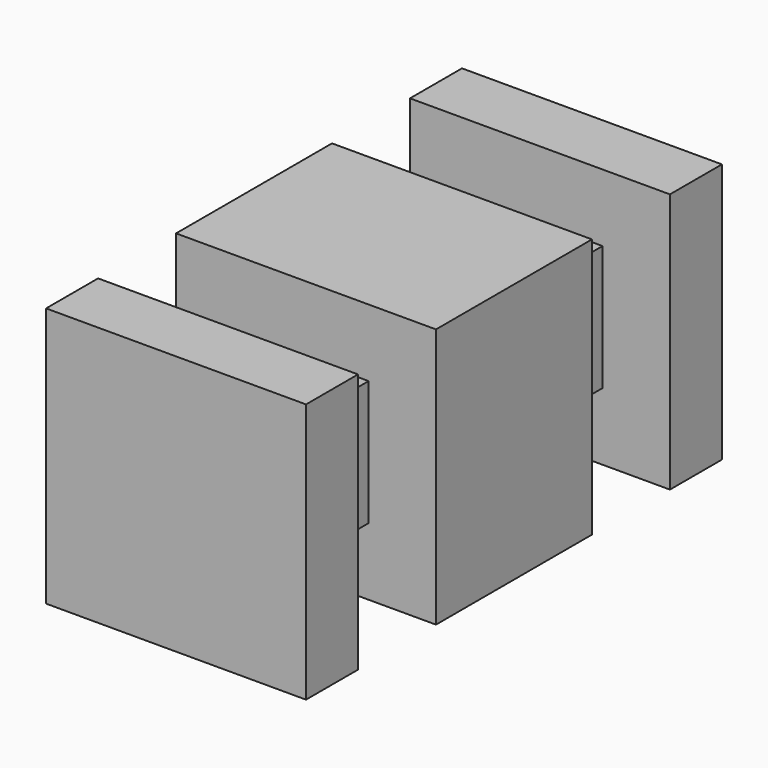
from build123d import *

# Parameters (mm, degrees)
F0_W      = 8
F0_H      = 6
F1_DEPTH  = 8
F2_W      = 3.85
F2_H      = 3.85
F3_DEPTH  = 3
F4_W      = 8
F4_H      = 8
F4_W_2    = 3.85
F4_H_2    = 3.85
F5_DEPTH  = 2
F7_W      = 3.85
F7_H      = 3.85
F8_DEPTH  = 3
F9_W      = 8
F9_H      = 8
F9_W_2    = 3.85
F9_H_2    = 3.85
F10_DEPTH = 2.35
F11_DEPTH = 0.35


with BuildPart() as f1:
    # F0 (on Top) → F1 (new body)
    with BuildSketch(Plane.XY):
        Rectangle(F0_W, F0_H)
    extrude(amount=F1_DEPTH)

    # F2 (on face) → F3 (join)
    with BuildSketch(Plane.XZ.offset(3)):
        with Locations((0, 4)):
            Rectangle(F2_W, F2_H)
    extrude(amount=F3_DEPTH)

    # F4 (on face) → F5 (join)
    with BuildSketch(Plane.XZ.offset(6)):
        with Locations((0, 4)):
            Rectangle(F4_W, F4_H)
        with Locations((0, 4)):
            Rectangle(F4_W_2, F4_H_2, mode=Mode.SUBTRACT)
        with Locations((0, 4)):
            Rectangle(F4_W_2, F4_H_2)
    extrude(amount=F5_DEPTH)

    # F7 (on face) → F8 (join)
    with BuildSketch(Plane(origin=(0, 3, 0), x_dir=(-1, 0, 0), z_dir=(0, 1, 0))):
        with Locations((0, 4)):
            Rectangle(F7_W, F7_H)
    extrude(amount=F8_DEPTH)

    # F9 (on face) → F10 (join)
    with BuildSketch(Plane(origin=(0, 6, 0), x_dir=(-1, 0, 0), z_dir=(0, 1, 0))):
        with Locations((0, 4)):
            Rectangle(F9_W, F9_H)
        with Locations((0, 4)):
            Rectangle(F9_W_2, F9_H_2, mode=Mode.SUBTRACT)
        with Locations((0, 4)):
            Rectangle(F9_W_2, F9_H_2)
    extrude(amount=F10_DEPTH)

    # F11 (cut): a face of the model
    f11_faces = [f1.faces().sort_by_distance(p)[0] for p in [
        (0, 8.35, 4),
    ]]
    extrude(f11_faces, amount=-F11_DEPTH, mode=Mode.SUBTRACT)


solid = f1.part
